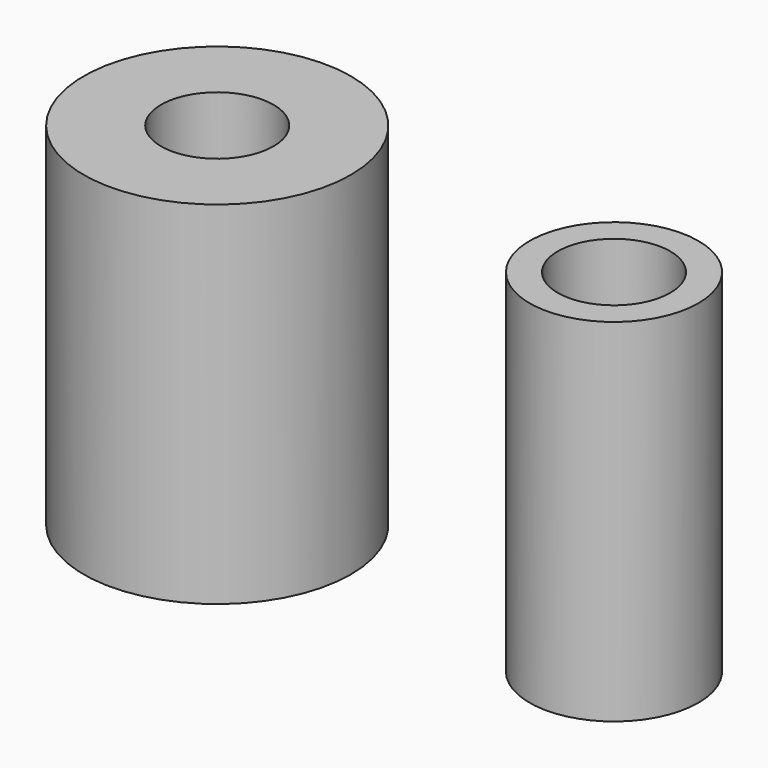
from build123d import *

# Parameters (mm, degrees)
F0_R     = 9.5
F1_DEPTH = 25
F2_R     = 4
F3_DEPTH = 18
F4_R     = 2.5
F5_DEPTH = 25
F7_R     = 9.5
F7_R_2   = 6
F8_DEPTH = 25


with BuildPart() as f1:
    # F0 (on Top) → F1 (new body)
    with BuildSketch(Plane.XY):
        Circle(F0_R)
    extrude(amount=F1_DEPTH)

    # F2 (on face) → F3 (cut)
    with BuildSketch(Plane.XY.offset(25)):
        Circle(F2_R)
    extrude(amount=-F3_DEPTH, mode=Mode.SUBTRACT)

    # F4 (on face) → F5 (cut)
    with BuildSketch(Plane(origin=(0, 0, 0), x_dir=(1, 0, 0), z_dir=(0, 0, -1))):
        Circle(F4_R)
    extrude(amount=-F5_DEPTH, mode=Mode.SUBTRACT)


with BuildPart() as f6_1:
    # F6: copy of F1
    add(f1.part.moved(Location((28.2, 0, 0))))

    # F7 (on face) → F8 (cut)
    with BuildSketch(Plane.XY.offset(25)):
        with Locations((28.2, 0)):
            Circle(F7_R)
        with Locations((28.2, 0)):
            Circle(F7_R_2, mode=Mode.SUBTRACT)
    extrude(amount=-F8_DEPTH, mode=Mode.SUBTRACT)


solid = Compound([f1.part, f6_1.part])
